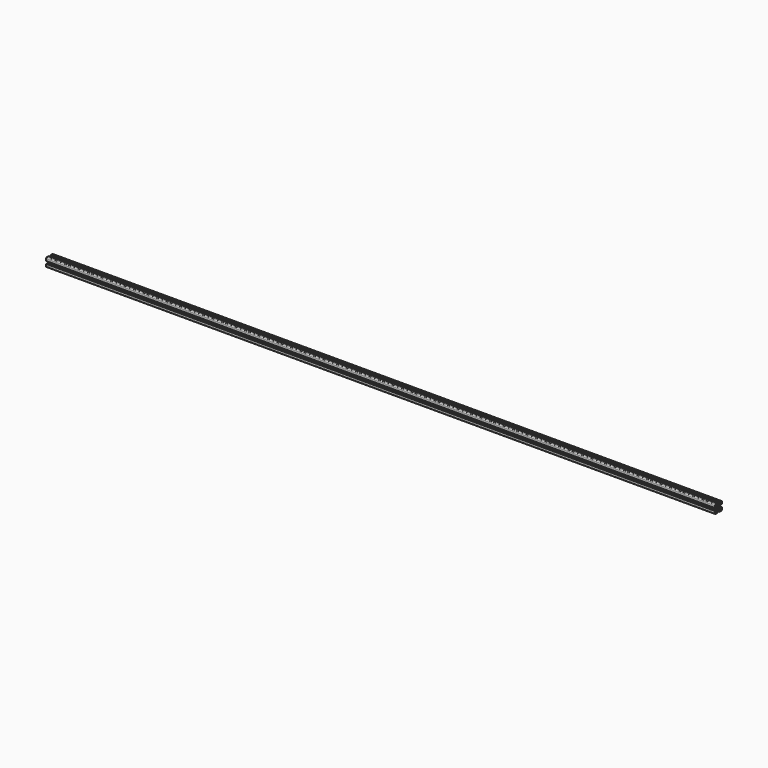
from build123d import *

# Parameters (mm, degrees)
SKETCH_R  = 2.5
PAD_DEPTH = 1550


with BuildPart() as part:
    # Sketch → Pad (new body)
    with BuildSketch(Plane.YZ):
        with BuildLine():
            ThreePointArc((-8, 10), (-9.414214, 9.414214), (-10, 8))
            Line((-10, 8), (-10, 3))
            Line((-8, 3), (-10, 3))
            Line((-8, 3), (-8, 7))
            Line((-4, 3), (-8, 7))
            Line((-4, -3), (-4, 3))
            Line((-8, -7), (-4, -3))
            Line((-8, -7), (-8, -3))
            Line((-10, -3), (-8, -3))
            Line((-10, -3), (-10, -8))
            ThreePointArc((-10, -8), (-9.414214, -9.414214), (-8, -10))
            Line((-8, -10), (-3, -10))
            Line((-3, -10), (-3, -8))
            Line((-3, -8), (-7, -8))
            Line((-3, -4), (-7, -8))
            Line((3, -4), (-3, -4))
            Line((3, -4), (7, -8))
            Line((3, -8), (7, -8))
            Line((3, -10), (3, -8))
            Line((3, -10), (8, -10))
            ThreePointArc((8, -10), (9.414214, -9.414214), (10, -8))
            Line((10, -8), (10, -3))
            Line((10, -3), (8, -3))
            Line((8, -7), (8, -3))
            Line((4, -3), (8, -7))
            Line((4, 3), (4, -3))
            Line((4, 3), (8, 7))
            Line((8, 7), (8, 3))
            Line((8, 3), (10, 3))
            Line((10, 3), (10, 8))
            ThreePointArc((10, 8), (9.414214, 9.414214), (8, 10))
            Line((3, 10), (8, 10))
            Line((3, 10), (3, 8))
            Line((3, 8), (7, 8))
            Line((7, 8), (3, 4))
            Line((-3, 4), (3, 4))
            Line((-3, 4), (-7, 8))
            Line((-7, 8), (-3, 8))
            Line((-3, 8), (-3, 10))
            Line((-8, 10), (-3, 10))
        make_face()
        Circle(SKETCH_R, mode=Mode.SUBTRACT)
    extrude(amount=PAD_DEPTH)


solid = part.part
